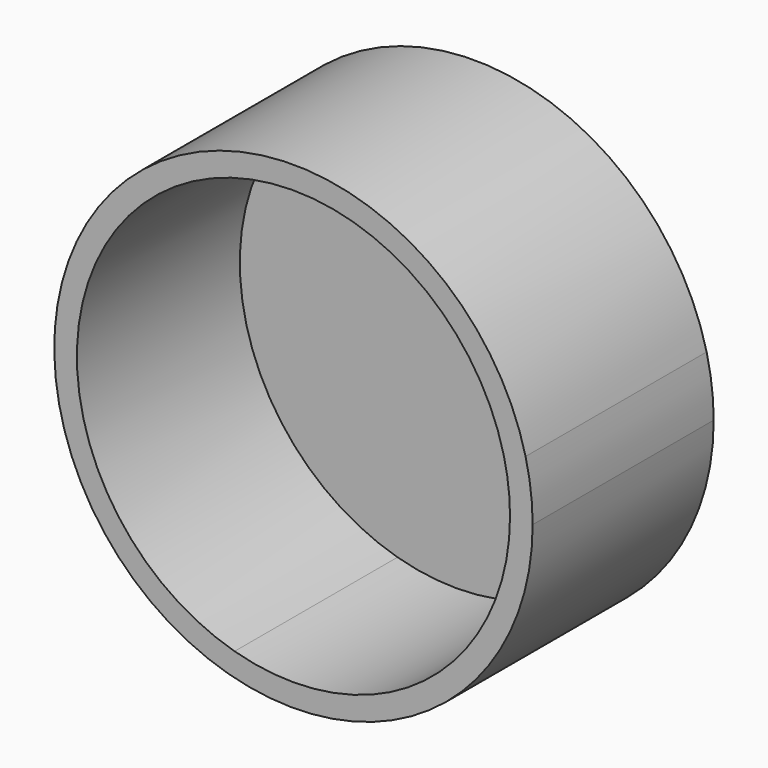
from build123d import *

# Parameters (mm, degrees)
F1_DEPTH = 25.4
F2_T     = -2.54


with BuildPart() as f1:
    # F0 (on Front) → F1 (new body)
    with BuildSketch(Plane.XZ):
        with BuildLine():
            ThreePointArc((-49.597935, -5.970298), (-42.262804, 19.828677), (-16.245349, 26.3466))
            ThreePointArc((-16.245349, 26.3466), (-60.981474, 39.147241), (-49.597935, -5.970298))
        make_face()
        with BuildLine():
            ThreePointArc((-49.597935, -5.970298), (-26.099746, -1.543581), (-15.451481, 19.866116))
            ThreePointArc((-15.451481, 19.866116), (-15.650687, 23.13058), (-16.245349, 26.3466))
            ThreePointArc((-16.245349, 26.3466), (-42.262804, 19.828677), (-49.597935, -5.970298))
        make_face()
    extrude(amount=F1_DEPTH)

    # F2
    f2_openings = [f1.faces().sort_by_distance(p)[0] for p in [
        (-42.299081, -25.4, 19.866116),
    ]]
    offset(amount=F2_T, openings=f2_openings)


solid = f1.part
